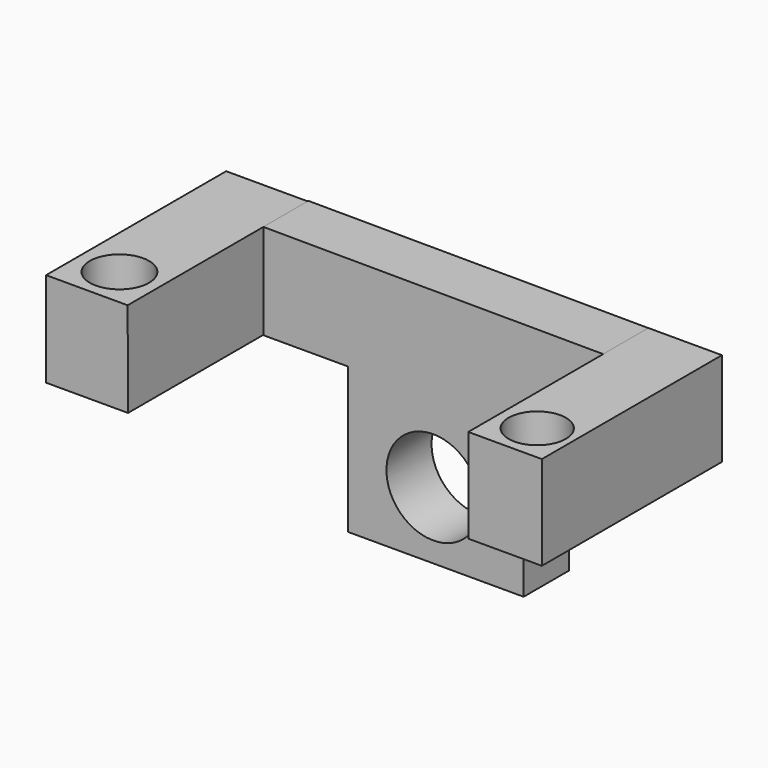
from build123d import *

# Parameters (mm, degrees)
F1_DEPTH = 25.4
F2_W     = 33.117227
F2_H     = 42.308025
F3_DEPTH = 101.346
F4_R     = 13.343181
F4_R_2   = 12.900124
F5_DEPTH = 128.27
F6_R     = 21.077997
F7_DEPTH = 62.738


with BuildPart() as f1:
    # F0 (on Front) → F1 (new body)
    with BuildSketch(Plane.XZ):
        Polygon((-38.354874, 0), (-38.354874, -65.568864), (40.691458, -65.568864), (40.691458, 0), (76.798312, 0), (76.798312, 42.279813), (-76.529235, 42.933661), (-76.529235, 0), align=None)
    extrude(amount=F1_DEPTH)

    # F2 (on Front) → F3 (join)
    with BuildSketch(Plane.XZ):
        with Locations((93.092281, 21.154013)):
            Rectangle(F2_W, F2_H)
        Polygon((-76.670997, 0), (-76.84296, 42.635918), (-113.568336, 42.635918), (-113.568336, 0), align=None)
    extrude(amount=F3_DEPTH)

    # F4 (on Top) → F5 (cut)
    with BuildSketch(Plane.XY):
        with Locations((-94.979756, -83.294027)):
            Circle(F4_R)
        with Locations((93.730949, -84.056497)):
            Circle(F4_R_2)
    extrude(amount=F5_DEPTH, mode=Mode.SUBTRACT)

    # F6 (on Front) → F7 (cut)
    with BuildSketch(Plane.XZ):
        with Locations((0, -35.402682)):
            Circle(F6_R)
    extrude(amount=F7_DEPTH, mode=Mode.SUBTRACT)


solid = f1.part
